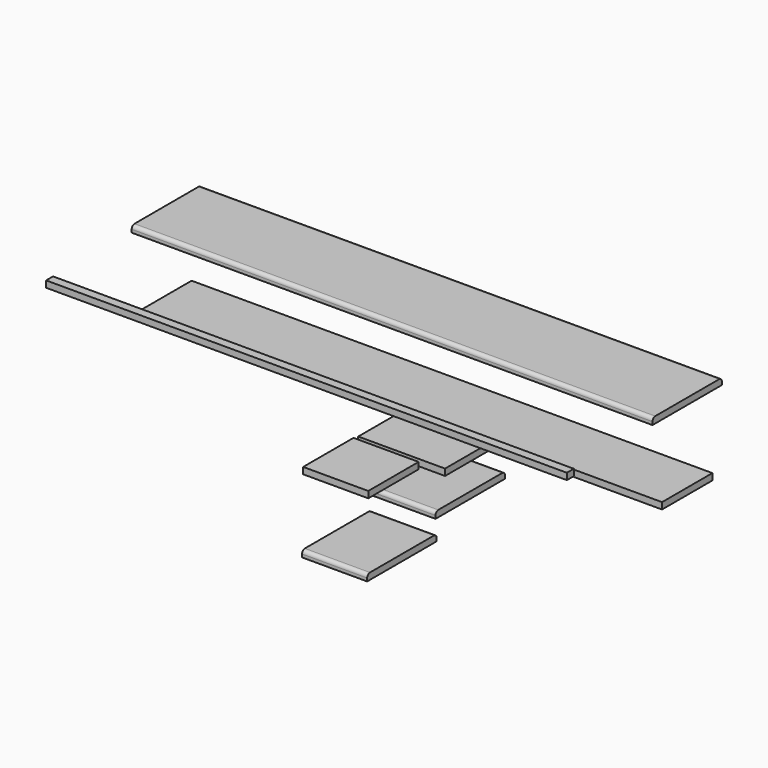
from build123d import *

# Parameters (mm, degrees)
F0_W      = 200
F0_H      = 15
F1_DEPTH  = 600
F2_R      = 8
F3_W      = 145
F3_H      = 15
F4_DEPTH  = 600
F5_W      = 145
F5_H      = 15
F6_DEPTH  = 100
F7_W      = 145
F7_H      = 15
F8_DEPTH  = 150
F9_W      = 20
F9_H      = 15
F10_DEPTH = 600


with BuildPart() as f1:
    # F0 (on Right) → F1 (new body, symmetric)
    with BuildSketch(Plane.YZ):
        with Locations((0, 165.454568)):
            Rectangle(F0_W, F0_H)
    extrude(amount=F1_DEPTH, both=True)

    # F2
    f2_edges = [f1.edges().sort_by_distance(p)[0] for p in [
        (0, -100, 172.954568),
        (0, 100, 172.954568),
    ]]
    fillet(f2_edges, radius=F2_R)


with BuildPart() as f4:
    # F3 (on Right) → F4 (new body, symmetric)
    with BuildSketch(Plane.YZ):
        with Locations((0, -17.001184)):
            Rectangle(F3_W, F3_H)
    extrude(amount=F4_DEPTH, both=True)


with BuildPart() as f6:
    # F5 (on Right) → F6 (new body, symmetric)
    with BuildSketch(Plane.YZ):
        with Locations((0, -111.548014)):
            Rectangle(F5_W, F5_H)
        with BuildLine():
            ThreePointArc((100, -187.918371), (97.656854, -182.261517), (92, -179.918371))
            Line((92, -179.918371), (-92, -179.918371))
            ThreePointArc((-92, -179.918371), (-97.656854, -182.261517), (-100, -187.918371))
            Line((-100, -187.918371), (-100, -194.918371))
            Line((-100, -194.918371), (100, -194.918371))
            Line((100, -194.918371), (100, -187.918371))
        make_face()
    extrude(amount=F6_DEPTH, both=True)


with BuildPart() as f8:
    # F7 (on Right) → F8 (new body)
    with BuildSketch(Plane.YZ):
        with Locations((-283.648392, -25.380761)):
            Rectangle(F7_W, F7_H)
        with BuildLine():
            Line((-359.290451, -193.195312), (-359.290451, -200.195312))
            Line((-359.290451, -200.195312), (-159.290451, -200.195312))
            Line((-159.290451, -200.195312), (-159.290451, -193.195312))
            ThreePointArc((-159.290451, -193.195312), (-161.633597, -187.538458), (-167.290451, -185.195312))
            Line((-167.290451, -185.195312), (-351.290451, -185.195312))
            ThreePointArc((-351.290451, -185.195312), (-356.947305, -187.538458), (-359.290451, -193.195312))
        make_face()
    extrude(amount=F8_DEPTH)


with BuildPart() as f10:
    # F9 (on Right) → F10 (new body, symmetric)
    with BuildSketch(Plane.YZ):
        with Locations((-336.631676, 154.013715)):
            Rectangle(F9_W, F9_H)
    extrude(amount=F10_DEPTH, both=True)


solid = Compound([f1.part, f4.part, f6.part, f8.part, f10.part])
